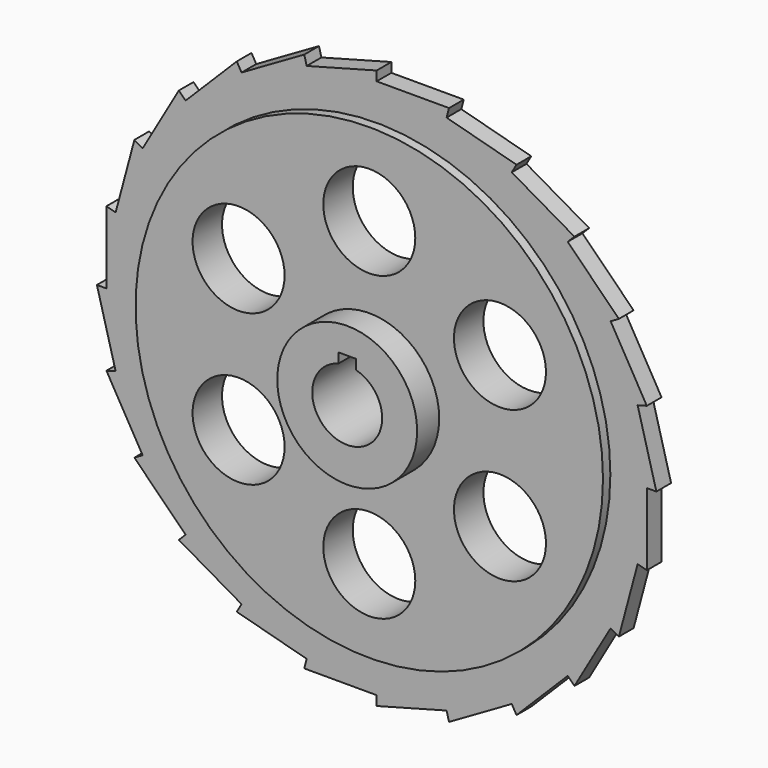
from build123d import *

# Parameters (mm, degrees)
F0_R     = 63.5
F1_DEPTH = 2.5
F2_R     = 63.5
F2_R_2   = 12.5
F2_R_3   = 19
F3_DEPTH = 5
F4_R     = 19
F5_DEPTH = 12.5


with BuildPart() as f1:
    # F0 (on Front) → F1 (new body, symmetric)
    with BuildSketch(Plane.XZ):
        Polygon((76, 0), (70.908965, 19), (73.410363, 19.670247), (63.575239, 36.705181), (65.817931, 38), (51.908965, 51.908965), (53.740115, 53.740115), (36.705181, 63.575239), (38, 65.817931), (19, 70.908965), (19.670247, 73.410363), (0, 73.410363), (0, 76), (-19, 70.908965), (-19.670247, 73.410363), (-36.705181, 63.575239), (-38, 65.817931), (-51.908965, 51.908965), (-53.740115, 53.740115), (-63.575239, 36.705181), (-65.817931, 38), (-70.908965, 19), (-73.410363, 19.670247), (-73.410363, 0), (-76, 0), (-70.908965, -19), (-73.410363, -19.670247), (-63.575239, -36.705181), (-65.817931, -38), (-51.908965, -51.908965), (-53.740115, -53.740115), (-36.705181, -63.575239), (-38, -65.817931), (-19, -70.908965), (-19.670247, -73.410363), (0, -73.410363), (0, -76), (19, -70.908965), (19.670247, -73.410363), (36.705181, -63.575239), (38, -65.817931), (51.908965, -51.908965), (53.740115, -53.740115), (63.575239, -36.705181), (65.817931, -38), (70.908965, -19), (73.410363, -19.670247), (73.410363, 0), align=None)
        Circle(F0_R, mode=Mode.SUBTRACT)
    extrude(amount=F1_DEPTH, both=True)

    # F2 (on Front) → F3 (join, symmetric)
    with BuildSketch(Plane.XZ):
        Circle(F2_R)
        with Locations((-35.507042, -20.5)):
            Circle(F2_R_2, mode=Mode.SUBTRACT)
        with Locations((0, -41)):
            Circle(F2_R_2, mode=Mode.SUBTRACT)
        with Locations((35.507042, -20.5)):
            Circle(F2_R_2, mode=Mode.SUBTRACT)
        with Locations((-35.507042, 20.5)):
            Circle(F2_R_2, mode=Mode.SUBTRACT)
        Circle(F2_R_3, mode=Mode.SUBTRACT)
        with Locations((35.507042, 20.5)):
            Circle(F2_R_2, mode=Mode.SUBTRACT)
        with Locations((0, 41)):
            Circle(F2_R_2, mode=Mode.SUBTRACT)
    extrude(amount=F3_DEPTH, both=True)

    # F4 (on Front) → F5 (join, symmetric)
    with BuildSketch(Plane.XZ):
        Circle(F4_R)
        with BuildLine():
            ThreePointArc((2.38, 9.197043), (7.51199, 5.815497), (9.5, 0))
            ThreePointArc((9.5, 0), (-5.815497, -7.51199), (-2.38, 9.197043))
            Line((-2.38, 9.197043), (-2.38, 11.88))
            Line((-2.38, 11.88), (0, 11.88))
            Line((0, 11.88), (2.38, 11.88))
            Line((2.38, 11.88), (2.38, 9.197043))
        make_face(mode=Mode.SUBTRACT)
    extrude(amount=F5_DEPTH, both=True)


solid = f1.part
